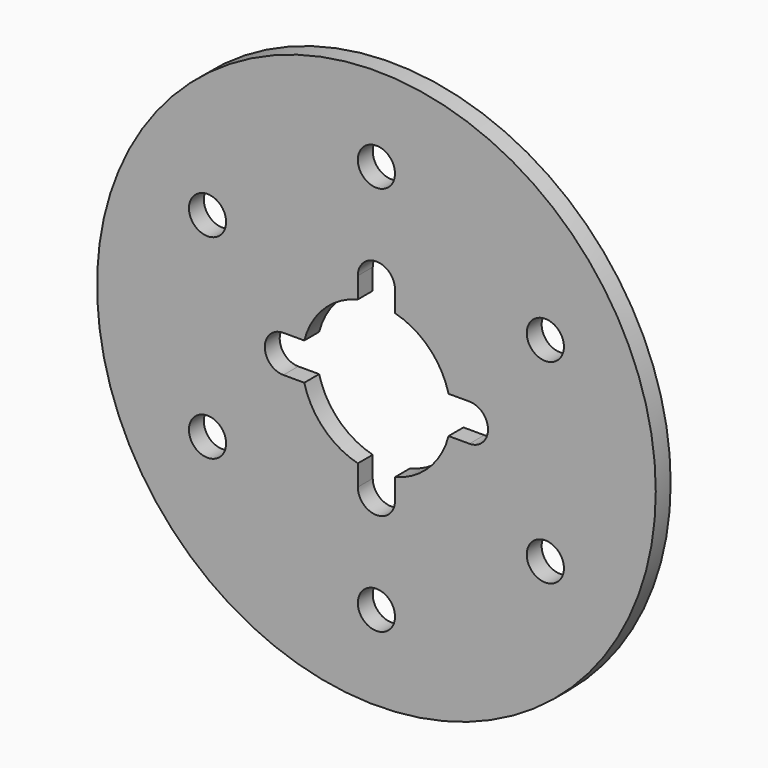
from build123d import *

# Parameters (mm, degrees)
F0_R     = 75
F0_R_2   = 4.987397
F1_DEPTH = 5


with BuildPart() as f1:
    # F0 (on Front) → F1 (new body)
    with BuildSketch(Plane.XZ):
        Circle(F0_R)
        with Locations((-45.342295, -26.178386)):
            Circle(F0_R_2, mode=Mode.SUBTRACT)
        with Locations((0, -52.356772)):
            Circle(F0_R_2, mode=Mode.SUBTRACT)
        with Locations((45.342295, -26.178386)):
            Circle(F0_R_2, mode=Mode.SUBTRACT)
        with Locations((-45.342295, 26.178386)):
            Circle(F0_R_2, mode=Mode.SUBTRACT)
        with BuildLine():
            ThreePointArc((-19.368166, 4.987397), (-14.142136, 14.142136), (-4.987397, 19.368166))
            Line((-4.987397, 19.368166), (-4.987397, 24.975684))
            ThreePointArc((-4.987397, 24.975684), (0, 29.963081), (4.987397, 24.975684))
            Line((4.987397, 24.975684), (4.987397, 19.368166))
            ThreePointArc((4.987397, 19.368166), (14.142136, 14.142136), (19.368166, 4.987397))
            Line((19.368166, 4.987397), (24.975684, 4.987397))
            ThreePointArc((24.975684, 4.987397), (29.963081, 0), (24.975684, -4.987397))
            Line((24.975684, -4.987397), (19.368166, -4.987397))
            ThreePointArc((19.368166, -4.987397), (14.142136, -14.142136), (4.987397, -19.368166))
            Line((4.987397, -19.368166), (4.987397, -24.975684))
            ThreePointArc((4.987397, -24.975684), (0, -29.963081), (-4.987397, -24.975684))
            Line((-4.987397, -24.975684), (-4.987397, -19.368166))
            ThreePointArc((-4.987397, -19.368166), (-14.142136, -14.142136), (-19.368166, -4.987397))
            Line((-19.368166, -4.987397), (-24.975684, -4.987397))
            ThreePointArc((-24.975684, -4.987397), (-29.963081, 0), (-24.975684, 4.987397))
            Line((-24.975684, 4.987397), (-19.368166, 4.987397))
        make_face(mode=Mode.SUBTRACT)
        with Locations((45.342295, 26.178386)):
            Circle(F0_R_2, mode=Mode.SUBTRACT)
        with Locations((0, 52.356772)):
            Circle(F0_R_2, mode=Mode.SUBTRACT)
    extrude(amount=F1_DEPTH)


solid = f1.part
